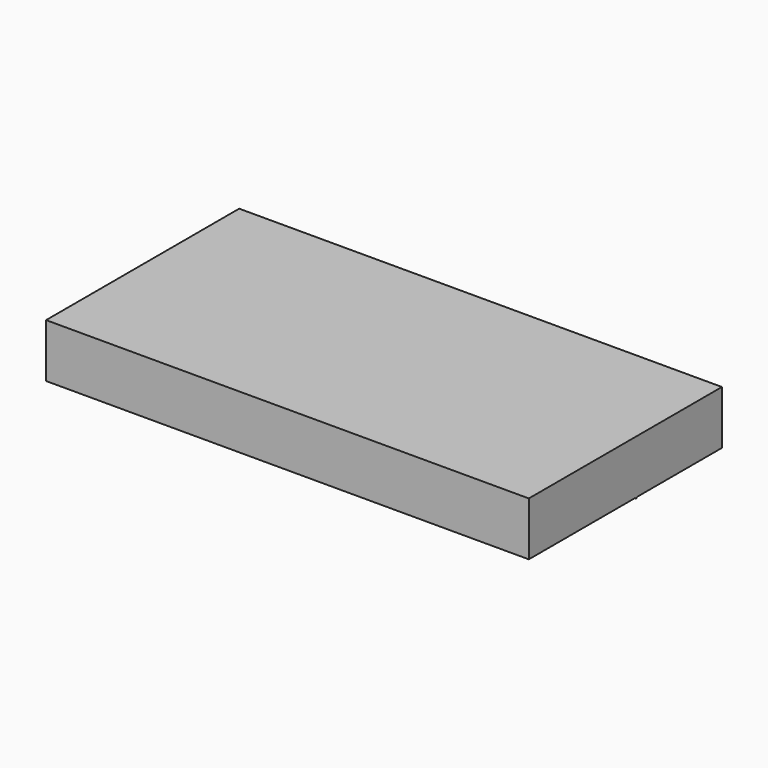
from build123d import *

# Parameters (mm, degrees)
F0_W     = 1828.8
F0_H     = 914.4
F1_DEPTH = 203.2
F3_R     = 3.175
F4_DEPTH = 1828.8


with BuildPart() as f1:
    # F0 (on Top) → F1 (new body)
    with BuildSketch(Plane.XY):
        with Locations((458.187128, 38.50697)):
            Rectangle(F0_W, F0_H)
    extrude(amount=F1_DEPTH)

    # F3 (on face) → F4 (join)
    with BuildSketch(Plane.YZ.offset(1372.587128)):
        with Locations((89.30697, 0)):
            Circle(F3_R)
    extrude(amount=-F4_DEPTH)


solid = f1.part
